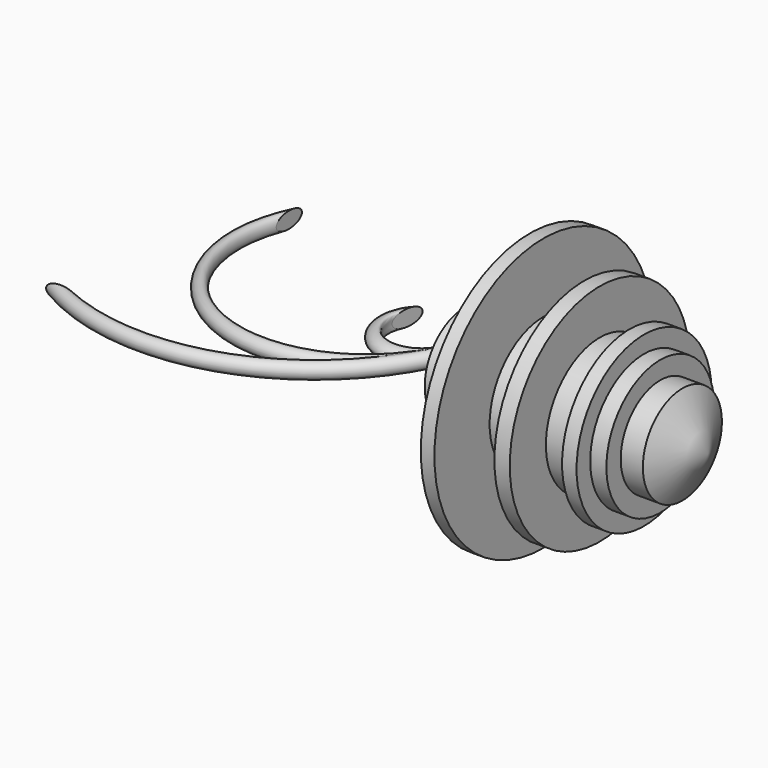
from build123d import *


with BuildPart() as f2:
    # F0 (on Top) → F2 (revolve)
    with BuildSketch(Plane.XY):
        Polygon((7.523543, 16.783291), (0, 0), (90.282537, 0), (81.601523, 16.783291), (74.077971, 16.783291), (74.077971, 22.860002), (68.580002, 22.860002), (68.580002, 28.647341), (63.660756, 28.647341), (63.660756, 22.860002), (53.532913, 22.860002), (53.532913, 38.196456), (48.324306, 38.196456), (48.324306, 22.860002), (34.43468, 22.860002), (34.43468, 46.298735), (29.804811, 46.298735), (29.804811, 22.860002), (25.464306, 22.860002), (22.570632, 16.783291), align=None)
    revolve(axis=Axis((45.141269, 0, 0), (1, 0, 0)))


with BuildPart() as f3:
    # F3: sweep along a path in F0
    with BuildLine(Plane.XY) as f3_path:
        ThreePointArc((0, 0), (-16.499797, -5.586724), (-20.834431, 11.285316))
    # F1 (on Right) → F3 (sweep)
    with BuildSketch(Plane.YZ):
        with BuildLine():
            add(Edge.make_bspline(
                [(-5.528776, 0), (-5.528776, -4.725975), (2.764388, -2.362988), (11.057552, 0), (2.764388, 2.362988), (-5.528776, 4.725975), (-5.528776, 0)],
                knots=[0, 0, 0, 2.094395, 2.094395, 4.18879, 4.18879, 6.283185, 6.283185, 6.283185], degree=2, weights=[1, 0.5, 1, 0.5, 1, 0.5, 1]))
        make_face()
    sweep(path=f3_path.line)


with BuildPart() as f4:
    # F4: sweep along a path in F0
    with BuildLine(Plane.XY) as f4_path:
        ThreePointArc((0, 0), (-57.931739, -22.230751), (-80.444053, 35.592154))
    # F3_face (on face) → F4 (sweep)
    with BuildSketch(Plane(origin=(0, 0.01341, 0), x_dir=(0, 1, 0), z_dir=(1, 0, 0))):
        with BuildLine():
            add(Edge.make_bspline(
                [(-5.542186, 0), (-5.542186, -4.725975), (2.750978, -2.362988), (11.044142, 0), (2.750978, 2.362988), (-5.542186, 4.725975), (-5.542186, 0)],
                knots=[0, 0, 0, 2.094395, 2.094395, 4.18879, 4.18879, 6.283185, 6.283185, 6.283185], degree=2, weights=[1, 0.5, 1, 0.5, 1, 0.5, 1]))
        make_face()
    sweep(path=f4_path.line)


with BuildPart() as f5:
    # F5: sweep along a path in F0
    with BuildLine(Plane.XY) as f5_path:
        ThreePointArc((0, 0), (-42.724561, -39.370127), (-100.699745, -35.592154))
    # F3_face (on face) → F5 (sweep)
    with BuildSketch(Plane(origin=(0, 0.01341, 0), x_dir=(0, 1, 0), z_dir=(1, 0, 0))):
        with BuildLine():
            add(Edge.make_bspline(
                [(-5.542186, 0), (-5.542186, -4.725975), (2.750978, -2.362988), (11.044142, 0), (2.750978, 2.362988), (-5.542186, 4.725975), (-5.542186, 0)],
                knots=[0, 0, 0, 2.094395, 2.094395, 4.18879, 4.18879, 6.283185, 6.283185, 6.283185], degree=2, weights=[1, 0.5, 1, 0.5, 1, 0.5, 1]))
        make_face()
    sweep(path=f5_path.line)


solid = Compound([f2.part, f3.part, f4.part, f5.part])
